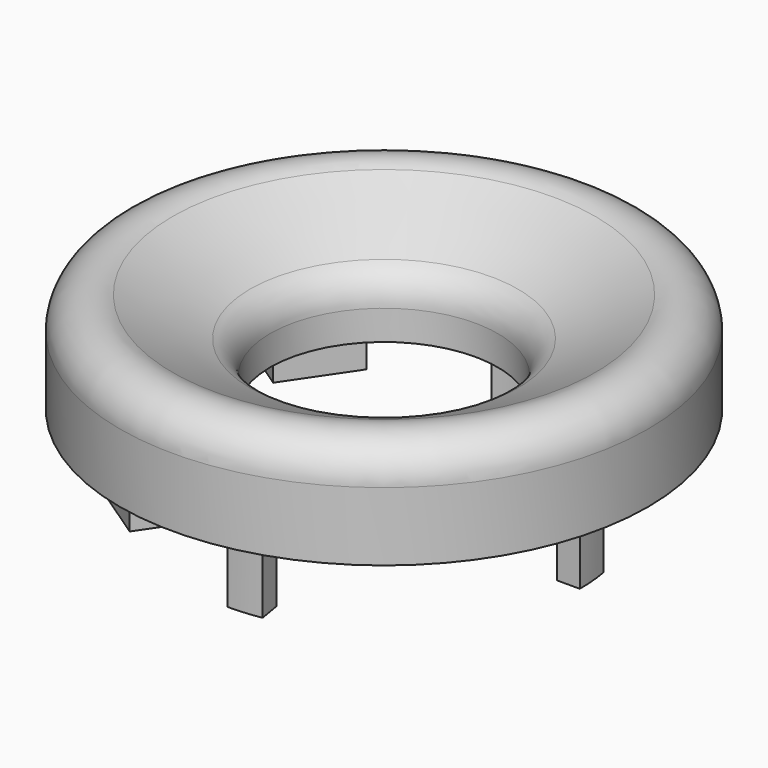
from build123d import *

# Parameters (mm, degrees)
F2_T           = -1.5
F6_DEPTH       = 3
F8_DEPTH       = 1
F10_DEPTH      = 5.18
F10_DEPTH_BACK = 0.25


with BuildPart() as f1:
    # F0 (on Front) → F1 (revolve)
    with BuildSketch(Plane.XZ):
        with BuildLine():
            Line((-14.5, 0), (-6.25, 0))
            Line((-6.25, 0), (-6.25, 1.632991153))
            ThreePointArc((-6.25, 1.632991153), (-6.5483488901, 2.6838876751), (-7.3543835, 3.4212503862))
            Line((-7.3543835, 3.4212503862), (-11.6043835, 5.5497841325))
            ThreePointArc((-11.6043835, 5.5497841325), (-13.550896522, 5.4631760093), (-14.5, 3.7615248994))
            Line((-14.5, 3.7615248994), (-14.5, 0))
        make_face()
    revolve(axis=Axis((0, 0, 5.6854286231), (0, 0, 1)))

    # F2
    f2_openings = [f1.faces().sort_by_distance(p)[0] for p in [
        (14.089878, 0, 0),
    ]]
    offset(amount=F2_T, openings=f2_openings)

    # F3 (on face) → F4 (join, up to the next surface of F1)
    with BuildSketch(Plane(origin=(0, 0, 0), x_dir=(1, 0, 0), z_dir=(0, 0, -1))):
        with BuildLine():
            ThreePointArc((4.4462618632, 12.2160040702), (-10.6489765758, -7.4564936726), (13, 0))
            Line((13, 0), (9.5, 0))
            ThreePointArc((9.5, 0), (-7.7819444207, -5.4489761453), (3.2491913616, 8.9270798975))
            Line((3.2491913616, 8.9270798975), (4.4462618632, 12.2160040702))
        make_face()
    extrude(until=Until.NEXT, dir=(0, 0, 1))

    # F5 (on face) → F6 (join)
    with BuildSketch(Plane(origin=(0, 0, 0), x_dir=(1, 0, 0), z_dir=(0, 0, -1))):
        with BuildLine():
            Line((-8.4889969369, 8.8274302143), (-6.9210526316, 6.5076132699))
            ThreePointArc((-6.9210526316, 6.5076132699), (-5.3198110359, 7.8708074899), (-3.457897336, 8.8483301257))
            Line((-3.457897336, 8.8483301257), (-5.0258416413, 11.1681470701))
            Line((-5.0258416413, 11.1681470701), (-8.4889969369, 8.8274302143))
        make_face()
        with BuildLine():
            Line((-8.8274302143, -8.4889969369), (-6.5076132699, -6.9210526316))
            ThreePointArc((-6.5076132699, -6.9210526316), (-7.8708074899, -5.3198110359), (-8.8483301257, -3.457897336))
            Line((-8.8483301257, -3.457897336), (-11.1681470701, -5.0258416413))
            Line((-11.1681470701, -5.0258416413), (-8.8274302143, -8.4889969369))
        make_face()
        with BuildLine():
            Line((8.4889969369, -8.8274302143), (6.9210526316, -6.5076132699))
            ThreePointArc((6.9210526316, -6.5076132699), (5.3198110359, -7.8708074899), (3.457897336, -8.8483301257))
            Line((3.457897336, -8.8483301257), (5.0258416413, -11.1681470701))
            Line((5.0258416413, -11.1681470701), (8.4889969369, -8.8274302143))
        make_face()
        with BuildLine():
            ThreePointArc((3.457897336, -8.8483301257), (5.3198110359, -7.8708074899), (6.9210526316, -6.5076132699))
            Line((6.9210526316, -6.5076132699), (3.457897336, -8.8483301257))
        make_face()
        with BuildLine():
            ThreePointArc((-8.8483301257, -3.457897336), (-7.8708074899, -5.3198110359), (-6.5076132699, -6.9210526316))
            Line((-6.5076132699, -6.9210526316), (-8.8483301257, -3.457897336))
        make_face()
        with BuildLine():
            ThreePointArc((-3.457897336, 8.8483301257), (-5.3198110359, 7.8708074899), (-6.9210526316, 6.5076132699))
            Line((-6.9210526316, 6.5076132699), (-3.457897336, 8.8483301257))
        make_face()
    extrude(amount=F6_DEPTH)

    # F7 (on face) → F8 (join)
    with BuildSketch(Plane(origin=(0, 0, 0), x_dir=(1, 0, 0), z_dir=(0, 0, -1))):
        with BuildLine():
            Line((3.6767165408, 10.1016956734), (4.1042417199, 11.2763114494))
            ThreePointArc((4.1042417199, 11.2763114494), (-9.8298245315, -6.8829172362), (12, 0))
            Line((12, 0), (10.75, 0))
            ThreePointArc((10.75, 0), (-8.8058844761, -6.1659466908), (3.6767165408, 10.1016956734))
        make_face()
    extrude(amount=F8_DEPTH)


with BuildPart() as f10:
    # F9 (on face) → F10 (new body, two sides)
    with BuildSketch(Plane(origin=(0, 0, 0), x_dir=(1, 0, 0), z_dir=(0, 0, -1))) as f10_sk:
        with BuildLine():
            Line((0, 10.75), (0, 9.5))
            ThreePointArc((0, 9.5), (0.8042866653, 9.465892613), (1.6027981482, 9.36381536))
            Line((1.6027981482, 9.36381536), (1.8136926414, 10.5958963284))
            ThreePointArc((1.8136926414, 10.5958963284), (0.9101138581, 10.7114047989), (0, 10.75))
        make_face()
    extrude(amount=F10_DEPTH)
    extrude(f10_sk.sketch, amount=-F10_DEPTH_BACK)


with BuildPart() as f10b:
    # F9 (on face) → F10, piece 2 (new body, two sides)
    with BuildSketch(Plane(origin=(0, 0, 0), x_dir=(1, 0, 0), z_dir=(0, 0, -1))) as f10_2_sk:
        with BuildLine():
            Line((10.75, 0), (9.5, 0))
            ThreePointArc((9.5, 0), (9.465892613, -0.8042866653), (9.36381536, -1.6027981482))
            Line((9.36381536, -1.6027981482), (10.5958963284, -1.8136926414))
            ThreePointArc((10.5958963284, -1.8136926414), (10.7114047989, -0.9101138581), (10.75, 0))
        make_face()
    extrude(amount=F10_DEPTH)
    extrude(f10_2_sk.sketch, amount=-F10_DEPTH_BACK)


with BuildPart() as f10c:
    # F9 (on face) → F10, piece 3 (new body, two sides)
    with BuildSketch(Plane(origin=(0, 0, 0), x_dir=(1, 0, 0), z_dir=(0, 0, -1))) as f10_3_sk:
        with BuildLine():
            Line((0, -10.75), (0, -9.5))
            ThreePointArc((0, -9.5), (-0.8042866653, -9.465892613), (-1.6027981482, -9.36381536))
            Line((-1.6027981482, -9.36381536), (-1.8136926414, -10.5958963284))
            ThreePointArc((-1.8136926414, -10.5958963284), (-0.9101138581, -10.7114047989), (0, -10.75))
        make_face()
    extrude(amount=F10_DEPTH)
    extrude(f10_3_sk.sketch, amount=-F10_DEPTH_BACK)


with BuildPart() as f10d:
    # F9 (on face) → F10, piece 4 (new body, two sides)
    with BuildSketch(Plane(origin=(0, 0, 0), x_dir=(1, 0, 0), z_dir=(0, 0, -1))) as f10_4_sk:
        with BuildLine():
            Line((-10.75, 0), (-9.5, 0))
            ThreePointArc((-9.5, 0), (-9.465892613, 0.8042866653), (-9.36381536, 1.6027981482))
            Line((-9.36381536, 1.6027981482), (-10.5958963284, 1.8136926414))
            ThreePointArc((-10.5958963284, 1.8136926414), (-10.7114047989, 0.9101138581), (-10.75, 0))
        make_face()
    extrude(amount=F10_DEPTH)
    extrude(f10_4_sk.sketch, amount=-F10_DEPTH_BACK)


solid = Compound([f1.part, f10.part, f10b.part, f10c.part, f10d.part])
